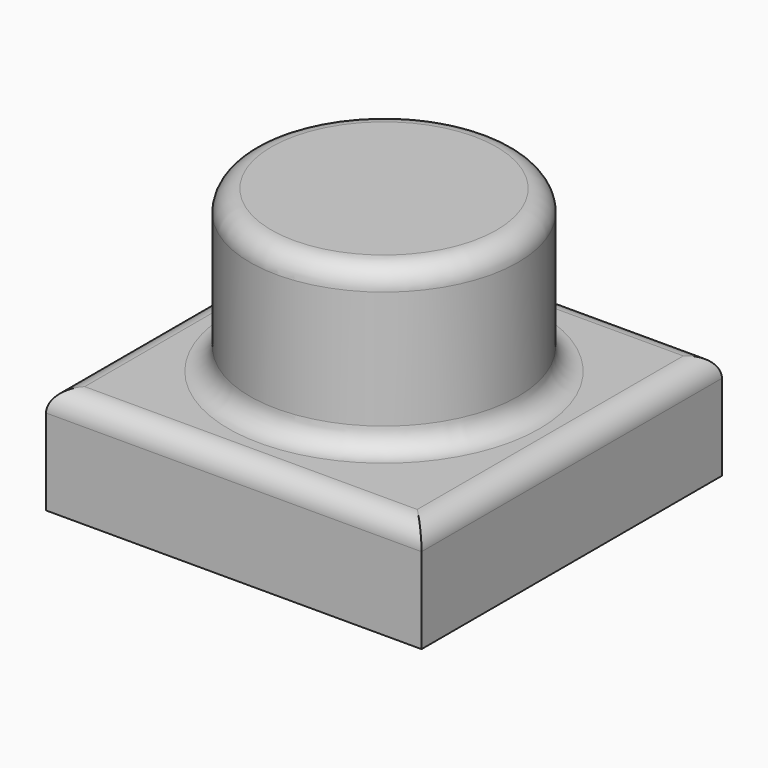
from build123d import *

# Parameters (mm, degrees)
F0_W     = 88.9
F0_H     = 88.9
F1_DEPTH = 25.4
F2_R     = 31.75
F3_DEPTH = 38.1
F4_R     = 5.08


with BuildPart() as f1:
    # F0 (on Top) → F1 (new body)
    with BuildSketch(Plane.XY):
        Rectangle(F0_W, F0_H)
    extrude(amount=F1_DEPTH)

    # F2 (on face) → F3 (join)
    with BuildSketch(Plane.XY.offset(25.4)):
        Circle(F2_R)
    extrude(amount=F3_DEPTH)

    # F4
    f4_edges = [f1.edges().sort_by_distance(p)[0] for p in [
        (-31.75, 0, 63.5),
        (-31.75, 0, 25.4),
        (44.45, 0, 25.4),
        (0, -44.45, 25.4),
        (-44.45, 0, 25.4),
        (0, 44.45, 25.4),
    ]]
    fillet(f4_edges, radius=F4_R)


solid = f1.part
